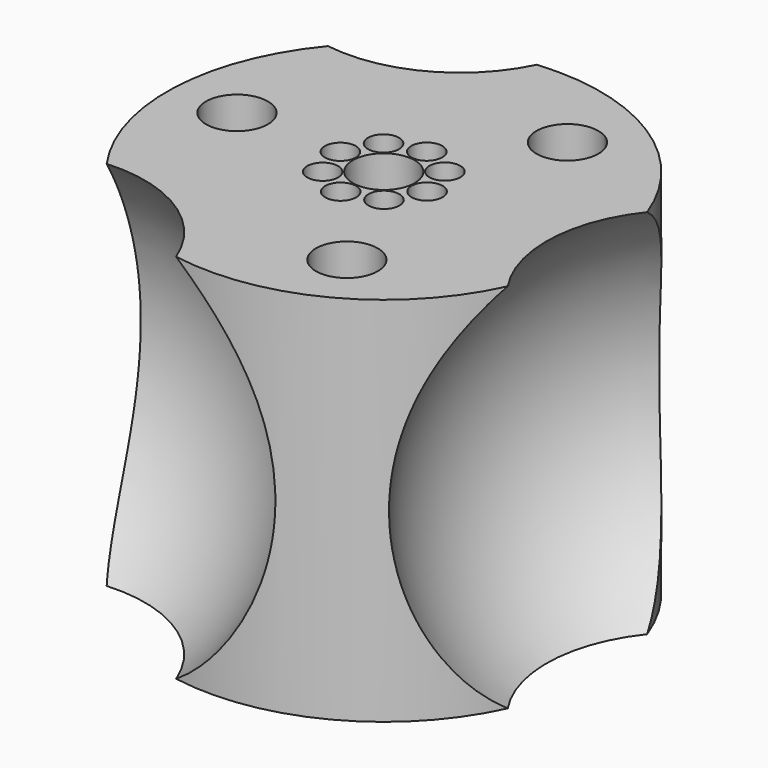
from build123d import *

# Parameters (mm, degrees)
F0_R          = 44.45
F0_R_2        = 16.51
F1_DEPTH      = 38.1
F1_DEPTH_BACK = 38.1
F6_R          = 3.175
F6_R_2        = 1.9685
F7_DEPTH      = 48.26
F8_R          = 6.35
F9_DEPTH      = 7.62
F10_R         = 3.429
F11_DEPTH     = 68.58
F12_R         = 6.35
F13_DEPTH     = 76.2


with BuildPart() as f1:
    # F0 (on Top) → F1 (new body, two sides)
    with BuildSketch(Plane.XY) as f1_sk:
        with Locations((-96.7949852347, 47.625)):
            Circle(F0_R)
        with Locations((-96.7949852347, 47.625)):
            Circle(F0_R_2, mode=Mode.SUBTRACT)
        with Locations((-96.7949852347, 47.625)):
            Circle(F0_R_2)
        with BuildLine():
            ThreePointArc((-88.1051627648, 52.1100670498), (-87.4115771175, 50.37826953), (-87.0594782396, 48.5462733292))
            ThreePointArc((-87.0594782396, 48.5462733292), (-85.6757800173, 47.965243489), (-85.103715896, 46.5778145407))
            ThreePointArc((-85.103715896, 46.5778145407), (-85.8323827306, 45.0488259953), (-87.478931514, 44.6517889292))
            ThreePointArc((-87.478931514, 44.6517889292), (-88.2130581693, 42.9367840447), (-89.2595036018, 41.3923956038))
            ThreePointArc((-89.2595036018, 41.3923956038), (-88.839336444, 40.7569162622), (-88.6919210429, 40.0094919292))
            ThreePointArc((-88.6919210429, 40.0094919292), (-90.1000831422, 38.1224270954), (-92.309918185, 38.9351775301))
            ThreePointArc((-92.309918185, 38.9351775301), (-94.0417157047, 38.2415918827), (-95.8737119056, 37.8894930048))
            ThreePointArc((-95.8737119056, 37.8894930048), (-98.0529677671, 35.9450498204), (-99.7681963056, 38.3089462792))
            ThreePointArc((-99.7681963056, 38.3089462792), (-101.48320119, 39.0430729345), (-103.0275896309, 40.089518367))
            ThreePointArc((-103.0275896309, 40.089518367), (-105.9434851899, 40.2555560033), (-105.4848077047, 43.1399329502))
            ThreePointArc((-105.4848077047, 43.1399329502), (-106.178393352, 44.87173047), (-106.5304922299, 46.7037266708))
            ThreePointArc((-106.5304922299, 46.7037266708), (-108.4749354144, 48.8829825323), (-106.1110389555, 50.5982110708))
            ThreePointArc((-106.1110389555, 50.5982110708), (-105.3769123002, 52.3132159553), (-104.3304668677, 53.8576043962))
            ThreePointArc((-104.3304668677, 53.8576043962), (-104.1644292314, 56.7734999551), (-101.2800522845, 56.3148224699))
            ThreePointArc((-101.2800522845, 56.3148224699), (-99.5482547647, 57.0084081173), (-97.7162585639, 57.3605069952))
            ThreePointArc((-97.7162585639, 57.3605069952), (-95.7414309138, 59.3162590358), (-93.7792997754, 57.3477693387))
            ThreePointArc((-93.7792997754, 57.3477693387), (-93.7899471678, 57.1433056087), (-93.8217741639, 56.9410537208))
            ThreePointArc((-93.8217741639, 56.9410537208), (-92.1067692795, 56.2069270655), (-90.5623808386, 55.160481633))
            ThreePointArc((-90.5623808386, 55.160481633), (-88.4202847093, 55.5757742752), (-87.210977164, 53.7595641919))
            ThreePointArc((-87.210977164, 53.7595641919), (-87.4489020941, 52.8214265806), (-88.1051627648, 52.1100670498))
        make_face(mode=Mode.SUBTRACT)
        with BuildLine():
            ThreePointArc((-87.478931514, 44.6517889292), (-89.0293967369, 46.7886116136), (-87.0594782396, 48.5462733292))
            ThreePointArc((-87.0594782396, 48.5462733292), (-87.4115771175, 50.37826953), (-88.1051627648, 52.1100670498))
            ThreePointArc((-88.1051627648, 52.1100670498), (-90.7124690483, 52.524684387), (-90.5623808386, 55.160481633))
            ThreePointArc((-90.5623808386, 55.160481633), (-92.1067692795, 56.2069270655), (-93.8217741639, 56.9410537208))
            ThreePointArc((-93.8217741639, 56.9410537208), (-95.9585968484, 55.3905884978), (-97.7162585639, 57.3605069952))
            ThreePointArc((-97.7162585639, 57.3605069952), (-99.5482547647, 57.0084081173), (-101.2800522845, 56.3148224699))
            ThreePointArc((-101.2800522845, 56.3148224699), (-101.0424845928, 55.8008459714), (-100.9610494266, 55.2405080708))
            ThreePointArc((-100.9610494266, 55.2405080708), (-102.1821250936, 53.4194234719), (-104.3304668677, 53.8576043962))
            ThreePointArc((-104.3304668677, 53.8576043962), (-105.3769123002, 52.3132159553), (-106.1110389555, 50.5982110708))
            ThreePointArc((-106.1110389555, 50.5982110708), (-104.988766028, 49.9120186247), (-104.5492545734, 48.6721854593))
            ThreePointArc((-104.5492545734, 48.6721854593), (-105.1303256251, 47.2757495806), (-106.5304922299, 46.7037266708))
            ThreePointArc((-106.5304922299, 46.7037266708), (-106.178393352, 44.87173047), (-105.4848077047, 43.1399329502))
            ThreePointArc((-105.4848077047, 43.1399329502), (-103.4723556943, 43.221010878), (-102.4419933055, 41.4904358081))
            ThreePointArc((-102.4419933055, 41.4904358081), (-102.5942832222, 40.7312433534), (-103.0275896309, 40.089518367))
            ThreePointArc((-103.0275896309, 40.089518367), (-101.48320119, 39.0430729345), (-99.7681963056, 38.3089462792))
            ThreePointArc((-99.7681963056, 38.3089462792), (-97.6377069641, 39.8600832689), (-95.8736706941, 37.9022306613))
            ThreePointArc((-95.8736706941, 37.9022306613), (-95.873680997, 37.8958617997), (-95.8737119056, 37.8894930048))
            ThreePointArc((-95.8737119056, 37.8894930048), (-94.0417157047, 38.2415918827), (-92.309918185, 38.9351775301))
            ThreePointArc((-92.309918185, 38.9351775301), (-91.8953008477, 41.5424838136), (-89.2595036018, 41.3923956038))
            ThreePointArc((-89.2595036018, 41.3923956038), (-88.2130581693, 42.9367840447), (-87.478931514, 44.6517889292))
        make_face()
    extrude(amount=F1_DEPTH)
    extrude(f1_sk.sketch, amount=-F1_DEPTH_BACK)

    # F2 (on Top) → F3 (revolve, cut)
    with BuildSketch(Plane.XY):
        with BuildLine():
            Line((-174.4341057324, 105.0050152593), (-126.6846434119, 104.5127225599))
            Line((-126.6846434119, 104.5127225599), (-78.9351810914, 104.0204298605))
            ThreePointArc((-78.9351810914, 104.0204298605), (-126.1923507125, 152.2621848804), (-174.4341057324, 105.0050152593))
        make_face()
    revolve(axis=Axis((-150.5593745721, 104.7588689096, 0), (0.9999468571, -0.0103093629, 0)), mode=Mode.SUBTRACT)

    # F2 (on Top) → F4 (revolve, cut)
    with BuildSketch(Plane.XY):
        with BuildLine():
            Line((-8.2828741018, 86.1724430488), (-32.5839432458, 45.0663420119))
            Line((-32.5839432458, 45.0663420119), (-56.8850123899, 3.960240975))
            ThreePointArc((-56.8850123899, 3.960240975), (8.5221577911, 20.7652728678), (-8.2828741018, 86.1724430488))
        make_face()
    revolve(axis=Axis((-44.7344778179, 24.5132914934, 0), (-0.5089015988, -0.8608246992, 0)), mode=Mode.SUBTRACT)

    # F2 (on Top) → F5 (revolve, cut)
    with BuildSketch(Plane.XY):
        with BuildLine():
            ThreePointArc((-154.564762223, 34.8943291645), (-172.7147627828, -30.1524577483), (-107.66797587, -48.3024583081))
            Line((-107.66797587, -48.3024583081), (-131.1163690465, -6.7040645718))
            Line((-131.1163690465, -6.7040645718), (-154.564762223, 34.8943291645))
        make_face()
    revolve(axis=Axis((-119.3921724583, -27.5032614399, 0), (-0.4910452583, 0.8711340622, 0)), mode=Mode.SUBTRACT)

    # F6 (on face) → F7 (cut)
    with BuildSketch(Plane.XY.offset(38.1)):
        with Locations((-102.9295494266, 55.2405080708)):
            Circle(F6_R)
        with Locations((-102.9295494266, 55.2405080708)):
            Circle(F6_R_2, mode=Mode.SUBTRACT)
        with Locations((-95.7477997754, 57.3477693387)):
            Circle(F6_R)
        with Locations((-95.7477997754, 57.3477693387)):
            Circle(F6_R_2, mode=Mode.SUBTRACT)
        with Locations((-89.179477164, 53.7595641919)):
            Circle(F6_R)
        with Locations((-89.179477164, 53.7595641919)):
            Circle(F6_R_2, mode=Mode.SUBTRACT)
        with Locations((-87.072215896, 46.5778145407)):
            Circle(F6_R)
        with Locations((-87.072215896, 46.5778145407)):
            Circle(F6_R_2, mode=Mode.SUBTRACT)
        with Locations((-90.6604210429, 40.0094919292)):
            Circle(F6_R)
        with Locations((-90.6604210429, 40.0094919292)):
            Circle(F6_R_2, mode=Mode.SUBTRACT)
        with Locations((-97.8421706941, 37.9022306613)):
            Circle(F6_R)
        with BuildLine():
            ThreePointArc((-95.8736706941, 37.9022306613), (-95.873680997, 37.8958617997), (-95.8737119056, 37.8894930048))
            ThreePointArc((-95.8737119056, 37.8894930048), (-99.8106603912, 37.9085995228), (-95.8736706941, 37.9022306613))
        make_face(mode=Mode.SUBTRACT)
        with Locations((-104.4104933055, 41.4904358081)):
            Circle(F6_R)
        with Locations((-104.4104933055, 41.4904358081)):
            Circle(F6_R_2, mode=Mode.SUBTRACT)
        with Locations((-106.5177545734, 48.6721854593)):
            Circle(F6_R)
        with Locations((-106.5177545734, 48.6721854593)):
            Circle(F6_R_2, mode=Mode.SUBTRACT)
    extrude(amount=-F7_DEPTH, mode=Mode.SUBTRACT)

    # F8 (on face) → F9 (cut)
    with BuildSketch(Plane.XY.offset(38.1)):
        with Locations((-96.7949852347, 47.625)):
            Circle(F8_R)
    extrude(amount=-F9_DEPTH, mode=Mode.SUBTRACT)

    # F10 (on face) → F11 (cut, through all)
    with BuildSketch(Plane.XY.offset(30.48)):
        with Locations((-96.7949852347, 47.625)):
            Circle(F10_R)
    extrude(amount=-F11_DEPTH, mode=Mode.SUBTRACT)

    # F12 (on face) → F13 (cut, through all)
    with BuildSketch(Plane.XY.offset(38.1)):
        with Locations((-127.8890646346, 48.8640254414)):
            Circle(F12_R)
        with BuildLine():
            ThreePointArc((-76.7834769385, 79.3022345884), (-85.5434026681, 77.325191035), (-83.5663591148, 68.5652653054))
            Line((-83.5663591148, 68.5652653054), (-76.7834769385, 79.3022345884))
        make_face()
        with BuildLine():
            Line((-76.7834769385, 79.3022345884), (-83.5663591148, 68.5652653054))
            ThreePointArc((-83.5663591148, 68.5652653054), (-77.1100486093, 68.3723584434), (-73.8249180267, 73.9337499469))
            ThreePointArc((-73.8249180267, 73.9337499469), (-74.6135265232, 76.9986193642), (-76.7834769385, 79.3022345884))
        make_face()
        with Locations((-82.3209730429, 20.0772246117)):
            Circle(F12_R)
    extrude(amount=-F13_DEPTH, mode=Mode.SUBTRACT)


solid = f1.part
